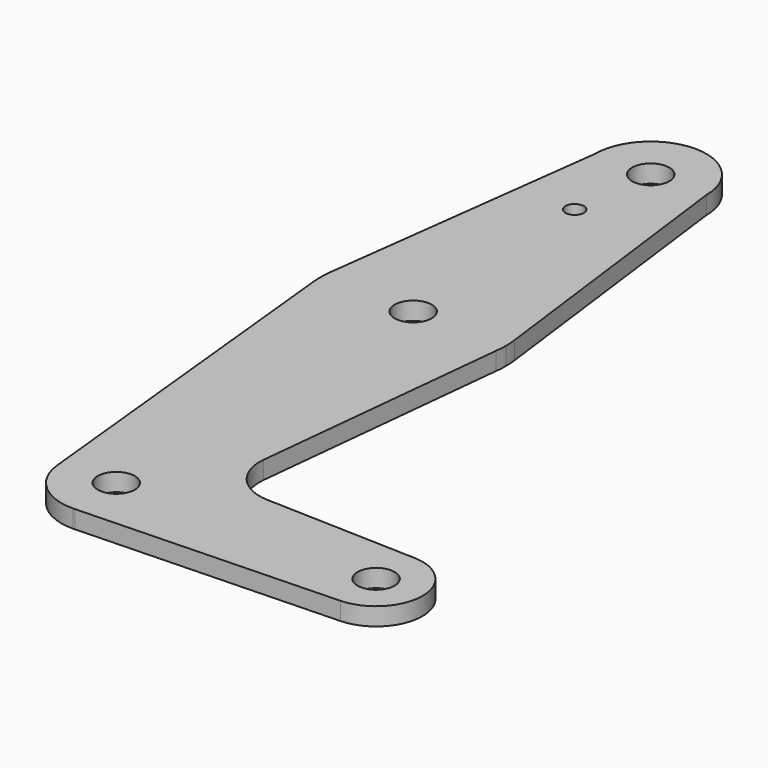
from build123d import *

# Parameters (mm, degrees)
F0_R     = 1.5875
F0_R_2   = 3.175
F1_DEPTH = 3.048


with BuildPart() as f1:
    # F0 (on Top) → F1 (new body)
    with BuildSketch(Plane.XY):
        with BuildLine():
            Line((15.7474569047, -11.4051324022), (9.525, 37.3865782674))
            ThreePointArc((9.525, 37.3865782674), (0, 27.8615782674), (-9.525, 37.3865782674))
            Line((-9.525, 37.3865782674), (-15.7474569047, -11.4051324022))
            ThreePointArc((-15.7474569047, -11.4051324022), (0, 2.4615782674), (15.7474569047, -11.4051324022))
        make_face()
        with Locations((-1.5875, 23.1117782674)):
            Circle(F0_R, mode=Mode.SUBTRACT)
        with BuildLine():
            ThreePointArc((15.875, -13.4134217326), (15.8430821396, -12.407254093), (15.7474569047, -11.4051324022))
            ThreePointArc((15.7474569047, -11.4051324022), (0, 2.4615782674), (-15.7474569047, -11.4051324022))
            ThreePointArc((-15.7474569047, -11.4051324022), (-15.875, -13.4134217326), (-15.7474569047, -15.421711063))
            ThreePointArc((-15.7474569047, -15.421711063), (0, -29.2884217326), (15.7474569047, -15.421711063))
            ThreePointArc((15.7474569047, -15.421711063), (15.8430821396, -14.4195893721), (15.875, -13.4134217326))
        make_face()
        with Locations((0, -13.4134217326)):
            Circle(F0_R_2, mode=Mode.SUBTRACT)
        with BuildLine():
            ThreePointArc((15.7474569047, -15.421711063), (0, -29.2884217326), (-15.7474569047, -15.421711063))
            Line((-15.7474569047, -15.421711063), (-9.3375264013, -77.8718329178))
            ThreePointArc((-9.3375264013, -77.8718329178), (-0.4798329414, -67.5391104703), (9.3865835795, -76.9134217326))
            ThreePointArc((9.3865835795, -76.9134217326), (6.7998902244, -83.3840819949), (0.4654582572, -86.2884577275))
            Line((0.4654582572, -86.2884577275), (44.7085217959, -84.8467106301))
            ThreePointArc((44.7085217959, -84.8467106301), (36.5125000065, -76.9137427656), (44.7078800696, -68.9801119492))
            Line((44.7078800696, -68.9801119492), (18.8504589628, -68.1395909388))
            ThreePointArc((18.8504589628, -68.1395909388), (13.1192485335, -65.4215446855), (11.2007484906, -59.3755620519))
            Line((11.2007484906, -59.3755620519), (15.7474569047, -15.421711063))
        make_face()
        with BuildLine():
            ThreePointArc((52.3875, -76.9134217326), (50.1531057023, -71.3926888466), (44.7078800696, -68.9801119492))
            ThreePointArc((44.7078800696, -68.9801119492), (36.5125000065, -76.9137427656), (44.7085217959, -84.8467106301))
            ThreePointArc((44.7085217959, -84.8467106301), (50.1533289842, -82.4339239514), (52.3875, -76.9134217326))
        make_face()
        with Locations((44.45, -76.9134217326)):
            Circle(F0_R_2, mode=Mode.SUBTRACT)
        with BuildLine():
            Line((0.4654582572, -86.2884577275), (0.1458890085, -86.2988715189))
            ThreePointArc((0.1458890085, -86.2988715189), (0.3057179772, -86.2950254235), (0.4654582572, -86.2884577275))
        make_face()
        with BuildLine():
            ThreePointArc((52.3875, -76.9134217326), (50.1531057023, -71.3926888466), (44.7078800696, -68.9801119492))
            ThreePointArc((44.7078800696, -68.9801119492), (36.5125000065, -76.9137427656), (44.7085217959, -84.8467106301))
            ThreePointArc((44.7085217959, -84.8467106301), (50.1533289842, -82.4339239514), (52.3875, -76.9134217326))
        make_face()
        with Locations((44.45, -76.9134217326)):
            Circle(F0_R_2, mode=Mode.SUBTRACT)
        with BuildLine():
            Line((0.4654582572, -86.2884577275), (0.1458890085, -86.2988715189))
            ThreePointArc((0.1458890085, -86.2988715189), (0.3057179772, -86.2950254235), (0.4654582572, -86.2884577275))
        make_face()
        with BuildLine():
            Line((15.7474569047, -11.4051324022), (9.525, 37.3865782674))
            ThreePointArc((9.525, 37.3865782674), (0, 27.8615782674), (-9.525, 37.3865782674))
            Line((-9.525, 37.3865782674), (-15.7474569047, -11.4051324022))
            ThreePointArc((-15.7474569047, -11.4051324022), (0, 2.4615782674), (15.7474569047, -11.4051324022))
        make_face()
        with Locations((-1.5875, 23.1117782674)):
            Circle(F0_R, mode=Mode.SUBTRACT)
        with BuildLine():
            ThreePointArc((15.875, -13.4134217326), (15.8430821396, -12.407254093), (15.7474569047, -11.4051324022))
            ThreePointArc((15.7474569047, -11.4051324022), (0, 2.4615782674), (-15.7474569047, -11.4051324022))
            ThreePointArc((-15.7474569047, -11.4051324022), (-15.875, -13.4134217326), (-15.7474569047, -15.421711063))
            ThreePointArc((-15.7474569047, -15.421711063), (0, -29.2884217326), (15.7474569047, -15.421711063))
            ThreePointArc((15.7474569047, -15.421711063), (15.8430821396, -14.4195893721), (15.875, -13.4134217326))
        make_face()
        with Locations((0, -13.4134217326)):
            Circle(F0_R_2, mode=Mode.SUBTRACT)
        with BuildLine():
            ThreePointArc((15.7474569047, -15.421711063), (0, -29.2884217326), (-15.7474569047, -15.421711063))
            Line((-15.7474569047, -15.421711063), (-9.3375264013, -77.8718329178))
            ThreePointArc((-9.3375264013, -77.8718329178), (-0.4798329414, -67.5391104703), (9.3865835795, -76.9134217326))
            ThreePointArc((9.3865835795, -76.9134217326), (6.7998902244, -83.3840819949), (0.4654582572, -86.2884577275))
            Line((0.4654582572, -86.2884577275), (44.7085217959, -84.8467106301))
            ThreePointArc((44.7085217959, -84.8467106301), (36.5125000065, -76.9137427656), (44.7078800696, -68.9801119492))
            Line((44.7078800696, -68.9801119492), (18.8504589628, -68.1395909388))
            ThreePointArc((18.8504589628, -68.1395909388), (13.1192485335, -65.4215446855), (11.2007484906, -59.3755620519))
            Line((11.2007484906, -59.3755620519), (15.7474569047, -15.421711063))
        make_face()
        with BuildLine():
            ThreePointArc((-9.525, 37.3865782674), (0, 27.8615782674), (9.525, 37.3865782674))
            ThreePointArc((9.525, 37.3865782674), (0, 46.9115782674), (-9.525, 37.3865782674))
        make_face()
        with Locations((0, 37.3865782674)):
            Circle(F0_R_2, mode=Mode.SUBTRACT)
        with BuildLine():
            ThreePointArc((9.3865835795, -76.9134217326), (-0.4798329414, -67.5391104703), (-9.3375264013, -77.8718329178))
            ThreePointArc((-9.3375264013, -77.8718329178), (-6.2350055642, -83.9300204035), (0.1458890085, -86.2988715189))
            Line((0.1458890085, -86.2988715189), (0.4654582572, -86.2884577275))
            ThreePointArc((0.4654582572, -86.2884577275), (6.7998902244, -83.3840819949), (9.3865835795, -76.9134217326))
        make_face()
        with Locations((0, -76.9134217326)):
            Circle(F0_R_2, mode=Mode.SUBTRACT)
    extrude(amount=F1_DEPTH)


solid = f1.part
